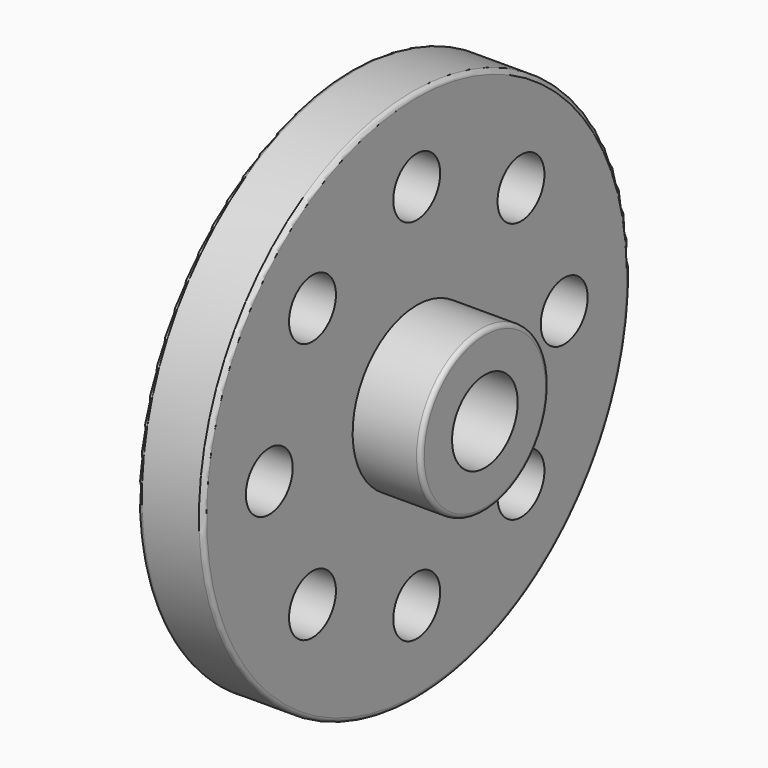
from build123d import *

# Parameters (mm, degrees)
F2_R     = 10.411054
F3_DEPTH = 47.962751
F4_R     = 1.524
F5_R     = 1.524


with BuildPart() as f1:
    # F0 (on Front) → F1 (revolve)
    with BuildSketch(Plane.XZ):
        Polygon((-35.411011, 28.463284), (-35.411011, 14.567823), (36.755737, 14.567823), (36.755737, 28.463284), (12.55074, 28.463284), (12.55074, 94.802901), (-10.757774, 94.802901), (-10.757774, 28.463284), align=None)
    revolve(axis=Axis((-25.101472, 0, 0), (1, 0, 0)))

    # F2 (on face) → F3 (cut, through all)
    with BuildSketch(Plane.YZ.offset(12.55074)):
        with Locations((0, 65.46654)):
            Circle(F2_R)
        with Locations((-46.291835, 46.291835)):
            Circle(F2_R)
        with Locations((-65.46654, 0)):
            Circle(F2_R)
        with Locations((-46.291835, -46.291835)):
            Circle(F2_R)
        with Locations((0, -65.46654)):
            Circle(F2_R)
        with Locations((46.291835, -46.291835)):
            Circle(F2_R)
        with Locations((65.46654, 0)):
            Circle(F2_R)
        with Locations((46.291835, 46.291835)):
            Circle(F2_R)
        with Locations((0, 65.46654)):
            Circle(F2_R)
    extrude(amount=-F3_DEPTH, mode=Mode.SUBTRACT)

    # F4
    f4_edges = [f1.edges().sort_by_distance(p)[0] for p in [
        (-10.757774, 0, -94.802901),
    ]]
    fillet(f4_edges, radius=F4_R)

    # F5
    f5_edges = [f1.edges().sort_by_distance(p)[0] for p in [
        (12.55074, 0, -94.802901),
        (36.755737, 0, -28.463284),
        (-35.411011, 0, -28.463284),
    ]]
    fillet(f5_edges, radius=F5_R)


solid = f1.part
